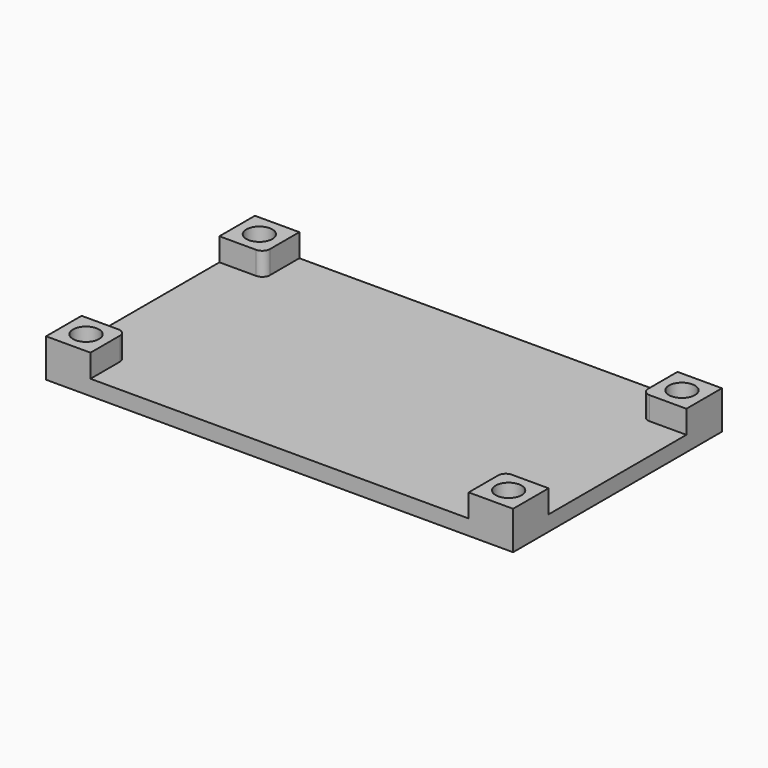
from build123d import *

# Parameters (mm, degrees)
F0_W     = 61
F0_H     = 34.1
F1_DEPTH = 2
F3_DEPTH = 3
F4_D     = 3.4


with BuildPart() as f1:
    # F0 (on Top) → F1 (new body)
    with BuildSketch(Plane.XY):
        Rectangle(F0_W, F0_H)
    extrude(amount=F1_DEPTH)

    # F2 (on face) → F3 (join)
    with BuildSketch(Plane.XY.offset(2)):
        with BuildLine():
            Line((-24.7, 17.05), (-30.5, 17.05))
            Line((-30.5, 17.05), (-30.5, 11.25))
            Line((-30.5, 11.25), (-25.7, 11.25))
            ThreePointArc((-25.7, 11.25), (-24.9928932188, 11.5428932188), (-24.7, 12.25))
            Line((-24.7, 12.25), (-24.7, 17.05))
        make_face()
        with BuildLine():
            Line((-25.7, -11.25), (-30.5, -11.25))
            Line((-30.5, -11.25), (-30.5, -17.05))
            Line((-30.5, -17.05), (-24.7, -17.05))
            Line((-24.7, -17.05), (-24.7, -12.25))
            ThreePointArc((-24.7, -12.25), (-24.9928932188, -11.5428932188), (-25.7, -11.25))
        make_face()
        with BuildLine():
            Line((30.5, -17.05), (30.5, -11.25))
            Line((30.5, -11.25), (25.7, -11.25))
            ThreePointArc((25.7, -11.25), (24.9928932188, -11.5428932188), (24.7, -12.25))
            Line((24.7, -12.25), (24.7, -17.05))
            Line((24.7, -17.05), (30.5, -17.05))
        make_face()
        with BuildLine():
            Line((30.5, 17.05), (24.7, 17.05))
            Line((24.7, 17.05), (24.7, 12.25))
            ThreePointArc((24.7, 12.25), (24.9928932188, 11.5428932188), (25.7, 11.25))
            Line((25.7, 11.25), (30.5, 11.25))
            Line((30.5, 11.25), (30.5, 17.05))
        make_face()
    extrude(amount=F3_DEPTH)

    # F4 (through all)
    with Locations(Plane(origin=(0, 0, 0), x_dir=(1, 0, 0), z_dir=(0, 0, -1))):
        with Locations((-27.6, -14.15), (27.6, -14.15), (27.6, 14.15), (-27.6, 14.15)):
            Hole(F4_D / 2)


solid = f1.part
